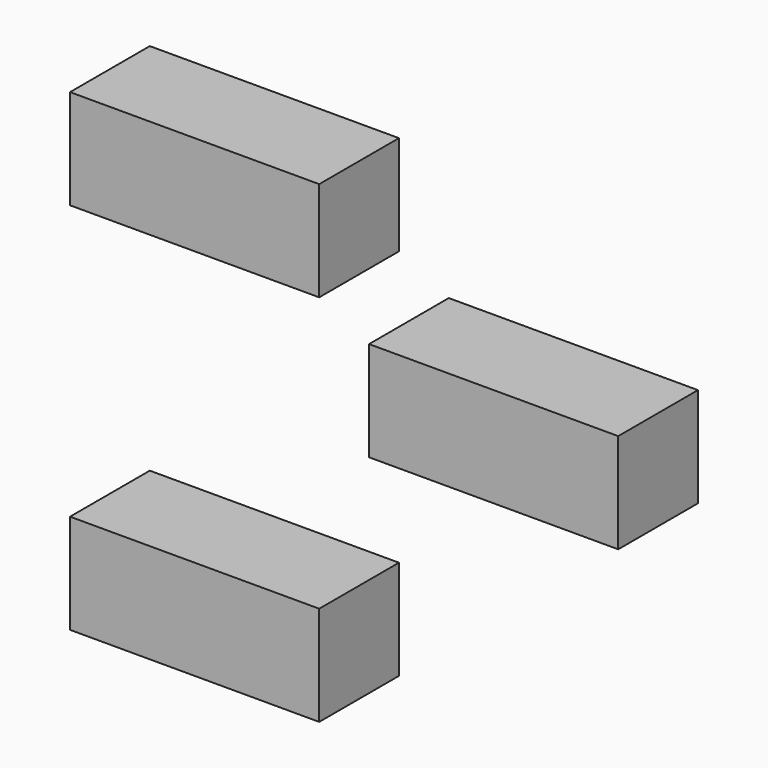
from build123d import *

# Parameters (mm, degrees)
BOX813_W     = 8
BOX813_H     = 20
BOX813_DEPTH = 8
BOX809_W     = 8
BOX809_H     = 20
BOX809_DEPTH = 8
BOX812_W     = 8
BOX812_H     = 20
BOX812_DEPTH = 8


with BuildPart() as krychle813:
    # Box813 → Box813 (new body)
    with BuildSketch(Plane(origin=(-48, 16, 35), x_dir=(0, 1, 0), z_dir=(0, 0, 1))):
        with Locations((4, 10)):
            Rectangle(BOX813_W, BOX813_H)
    extrude(amount=BOX813_DEPTH)


with BuildPart() as krychle809:
    # Box809 → Box809 (new body)
    with BuildSketch(Plane(origin=(-48, -14, 65), x_dir=(0, 1, 0), z_dir=(0, 0, 1))):
        with Locations((4, 10)):
            Rectangle(BOX809_W, BOX809_H)
    extrude(amount=BOX809_DEPTH)


with BuildPart() as compound943:
    # Box812 → Box812 (new body)
    with BuildSketch(Plane(origin=(-48, -14, 35), x_dir=(0, 1, 0), z_dir=(0, 0, 1))):
        with Locations((4, 10)):
            Rectangle(BOX812_W, BOX812_H)
    extrude(amount=BOX812_DEPTH)

    # Compound943: union Krychle813, Krychle809
    add(krychle813.part)
    add(krychle809.part)


with BuildPart() as compound943_mirrored:
    # mirror007: instance of Compound943
    add(compound943.part.mirror(Plane(origin=(4e-06, 5, 54), x_dir=(0, -1, 0), z_dir=(1, 0, 0))))


solid = compound943_mirrored.part
